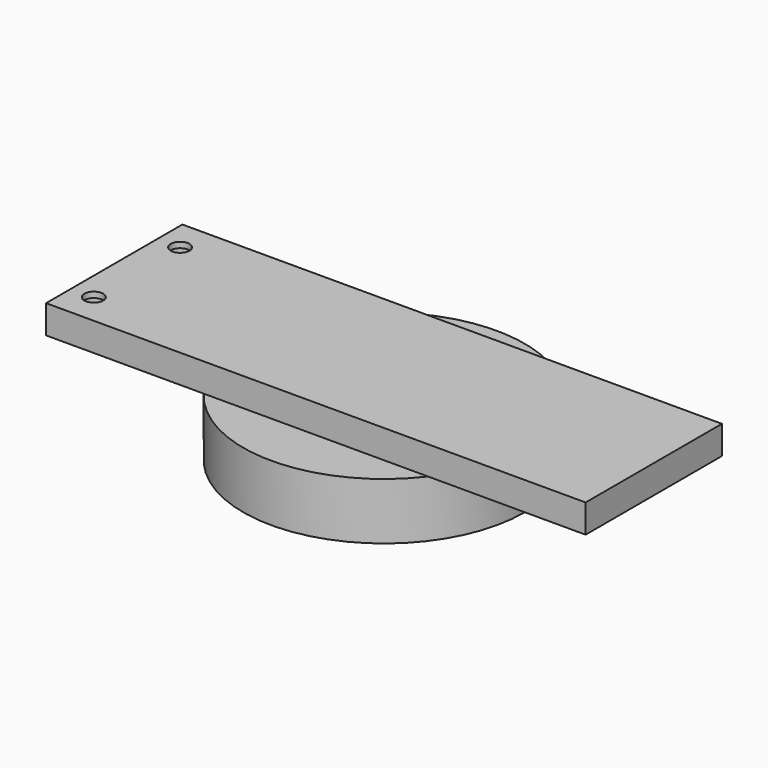
from build123d import *

# Parameters (mm, degrees)
CYLINDER017_R     = 3.5
CYLINDER017_DEPTH = 4
CYLINDER015_R     = 1.65
CYLINDER015_DEPTH = 20
CYLINDER016_R     = 3.5
CYLINDER016_DEPTH = 4
CYLINDER014_R     = 1.65
CYLINDER014_DEPTH = 20
BOX001_W          = 95
BOX001_H          = 30
BOX001_DEPTH      = 5
CYLINDER010_R     = 24.8
CYLINDER010_DEPTH = 10


with BuildPart() as zylinder017:
    # Cylinder017 → Cylinder017 (new body)
    with BuildSketch(Plane.XY):
        Circle(CYLINDER017_R)
    extrude(amount=CYLINDER017_DEPTH)


with BuildPart() as screw02:
    # Cylinder015 → Cylinder015 (new body)
    with BuildSketch(Plane.XY):
        Circle(CYLINDER015_R)
    extrude(amount=CYLINDER015_DEPTH)

    # Fusion003: union Zylinder017
    add(zylinder017.part)


with BuildPart() as screw02_1:
    # Fusion003 placement: moved
    add(screw02.part.moved(Location((4, 57, 10))))


with BuildPart() as zylinder016:
    # Cylinder016 → Cylinder016 (new body)
    with BuildSketch(Plane.XY):
        Circle(CYLINDER016_R)
    extrude(amount=CYLINDER016_DEPTH)


with BuildPart() as compound002:
    # Cylinder014 → Cylinder014 (new body)
    with BuildSketch(Plane.XY):
        Circle(CYLINDER014_R)
    extrude(amount=CYLINDER014_DEPTH)

    # Fusion002: union Zylinder016
    add(zylinder016.part)


with BuildPart() as compound002_1:
    # Fusion002 placement: moved
    add(compound002.part.moved(Location((4, 38, 10))))

    # Compound002: union Screw02
    add(screw02_1.part)


with BuildPart() as obj1:
    # Box001 → Box001 (new body)
    with BuildSketch(Plane(origin=(0, 32.5, 10), x_dir=(1, 0, 0), z_dir=(0, 0, 1))):
        with Locations((47.5, 15)):
            Rectangle(BOX001_W, BOX001_H)
    extrude(amount=BOX001_DEPTH)


with BuildPart() as rotatingtable:
    # Cylinder010 → Cylinder010 (new body)
    with BuildSketch(Plane(origin=(47.5, 47.5, 0), x_dir=(1, 0, 0), z_dir=(0, 0, 1))):
        Circle(CYLINDER010_R)
    extrude(amount=CYLINDER010_DEPTH)

    # Fusion001: union obj1
    add(obj1.part)

    # Cut006: cut Compound002
    add(compound002_1.part, mode=Mode.SUBTRACT)


solid = rotatingtable.part
